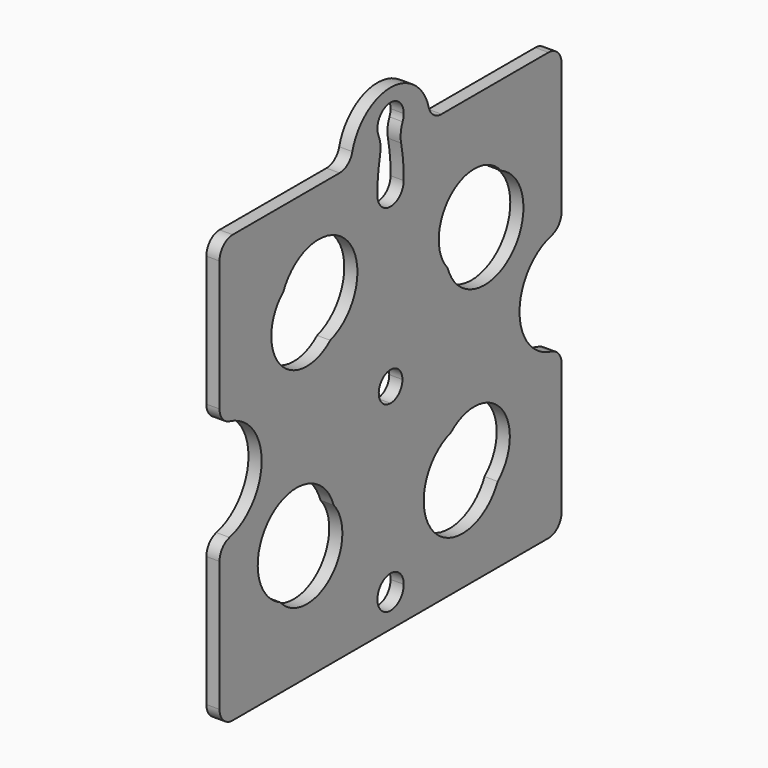
from build123d import *

# Parameters (mm, degrees)
F1_DEPTH = 4


with BuildPart() as f1:
    # F0 (on Right) → F1 (new body)
    with BuildSketch(Plane.YZ):
        with BuildLine():
            Line((-19.364917, 65), (-60, 65))
            ThreePointArc((-60, 65), (-63.535534, 63.535534), (-65, 60))
            Line((-65, 60), (-65, 20.396078))
            ThreePointArc((-65, 20.396078), (-63.933979, 17.310011), (-61.190476, 15.539869))
            ThreePointArc((-61.190476, 15.539869), (-49, 0), (-61.190476, -15.539869))
            ThreePointArc((-61.190476, -15.539869), (-63.933979, -17.310011), (-65, -20.396078))
            Line((-65, -20.396078), (-65, -60))
            ThreePointArc((-65, -60), (-63.535534, -63.535534), (-60, -65))
            Line((-60, -65), (60, -65))
            ThreePointArc((60, -65), (63.535534, -63.535534), (65, -60))
            Line((65, -60), (65, -20.396078))
            ThreePointArc((65, -20.396078), (63.933979, -17.310011), (61.190476, -15.539869))
            ThreePointArc((61.190476, -15.539869), (49, 0), (61.190476, 15.539869))
            ThreePointArc((61.190476, 15.539869), (63.933979, 17.310011), (65, 20.396078))
            Line((65, 20.396078), (65, 60))
            ThreePointArc((65, 60), (63.535534, 63.535534), (60, 65))
            Line((60, 65), (19.364917, 65))
            ThreePointArc((19.364917, 65), (16.303055, 66.047153), (14.523688, 68.75))
            ThreePointArc((14.523688, 68.75), (0, 80), (-14.523688, 68.75))
            ThreePointArc((-14.523688, 68.75), (-16.303055, 66.047153), (-19.364917, 65))
        make_face()
        with BuildLine():
            ThreePointArc((-21.664404, -22.924985), (-22.924985, -41.975206), (-41.975206, -40.714626))
            ThreePointArc((-41.975206, -40.714626), (-45.453544, -16.253883), (-21.664404, -22.924985))
        make_face(mode=Mode.SUBTRACT)
        with BuildLine():
            ThreePointArc((5, -55), (-3.535534, -58.535534), (0, -50))
            ThreePointArc((0, -50), (3.535534, -51.464466), (5, -55))
        make_face(mode=Mode.SUBTRACT)
        with BuildLine():
            ThreePointArc((22.924985, -21.664404), (41.975206, -22.924985), (40.714626, -41.975206))
            ThreePointArc((40.714626, -41.975206), (16.253883, -45.453544), (22.924985, -21.664404))
        make_face(mode=Mode.SUBTRACT)
        with BuildLine():
            ThreePointArc((0, -4.5), (-3.181981, 3.181981), (4.5, 0))
            ThreePointArc((4.5, 0), (3.181981, -3.181981), (0, -4.5))
        make_face(mode=Mode.SUBTRACT)
        with BuildLine():
            ThreePointArc((-22.924985, 21.664404), (-41.975206, 22.924985), (-40.714626, 41.975206))
            ThreePointArc((-40.714626, 41.975206), (-16.253883, 45.453544), (-22.924985, 21.664404))
        make_face(mode=Mode.SUBTRACT)
        with BuildLine():
            ThreePointArc((21.664404, 22.924985), (22.924985, 41.975206), (41.975206, 40.714626))
            ThreePointArc((41.975206, 40.714626), (45.453544, 16.253883), (21.664404, 22.924985))
        make_face(mode=Mode.SUBTRACT)
        with BuildLine():
            ThreePointArc((-5, 71), (0, 76), (5, 71))
            ThreePointArc((5, 71), (4.892932, 69.97082), (4.576315, 68.985716))
            ThreePointArc((4.576315, 68.985716), (3.859883, 66.289083), (4, 63.502423))
            ThreePointArc((4, 63.502423), (4.786744, 58.307337), (4.999482, 53.057325))
            ThreePointArc((4.999482, 53.057325), (0, 48.129323), (-4.999482, 53.057325))
            ThreePointArc((-4.999482, 53.057325), (-4.786744, 58.307337), (-4, 63.502423))
            ThreePointArc((-4, 63.502423), (-3.859883, 66.289083), (-4.576315, 68.985716))
            ThreePointArc((-4.576315, 68.985716), (-4.892932, 69.97082), (-5, 71))
        make_face(mode=Mode.SUBTRACT)
    extrude(amount=F1_DEPTH)


solid = f1.part
